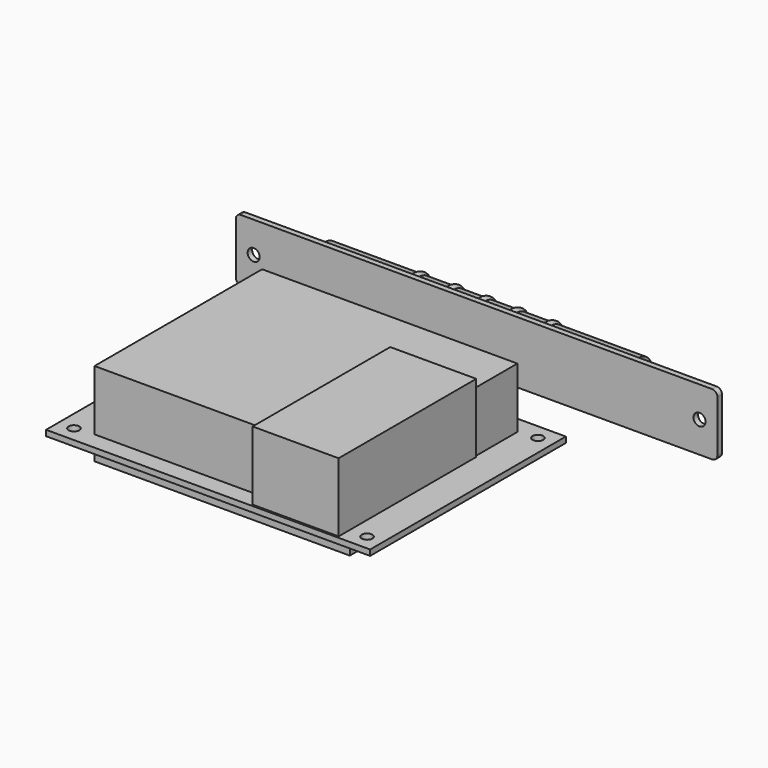
from build123d import *

# Parameters (mm, degrees)
SKETCH008_W          = 140
SKETCH008_H          = 18
SKETCH008_R          = 1.75
PAD006_DEPTH         = 1.65
FILLET_R             = 1.5
FUSION003_ROLL_ANGLE = -90
SKETCH006_W          = 74.2
SKETCH006_H          = 60.9
PAD005_DEPTH         = 6.9
SKETCH005_W          = 25
SKETCH005_H          = 50
PAD004_DEPTH         = 20
SKETCH004_W          = 74.2
SKETCH004_H          = 60.9
PAD003_DEPTH         = 17.5
SKETCH003_W          = 94.2
SKETCH003_H          = 71.1
SKETCH003_R          = 1.55
PAD002_DEPTH         = 1.65


with BuildPart() as fillet_body:
    # Sketch008 → Pad006 (new body)
    with BuildSketch(Plane.XY):
        Rectangle(SKETCH008_W, SKETCH008_H)
        with Locations((-64.8, 0)):
            Circle(SKETCH008_R, mode=Mode.SUBTRACT)
        with Locations((64.8, 0)):
            Circle(SKETCH008_R, mode=Mode.SUBTRACT)
    extrude(amount=PAD006_DEPTH)

    # Fillet
    fillet_edges = [fillet_body.edges().sort_by_distance(p)[0] for p in [
        (-70, -9, 0.825),
        (-70, 9, 0.825),
        (70, 9, 0.825),
        (70, -9, 0.825),
    ]]
    fillet(fillet_edges, radius=FILLET_R)


with BuildPart() as tubeassembly:
    # Sketch007 → Revolution (revolve)
    with BuildSketch(Plane(origin=(-4.7, 0, 7.8), x_dir=(1, 0, 0), z_dir=(0, 0, 1))):
        with BuildLine():
            Line((45.6, 4.85), (45.6, 3.25))
            Line((45.6, 3.25), (53.6, 3.25))
            Line((53.6, 3.25), (53.6, 0))
            Line((53.6, 0), (-53.6, 0))
            Line((-53.6, 3.25), (-53.6, 0))
            Line((-45.6, 3.25), (-53.6, 3.25))
            Line((-45.6, 4.85), (-45.6, 3.25))
            Line((-45.6, 4.85), (-20.2, 4.85))
            ThreePointArc((-18.240408, 4.85), (-19.220204, 5.45), (-20.2, 4.85))
            Line((-10.1, 4.85), (-18.240408, 4.85))
            ThreePointArc((-8.140408, 4.85), (-9.120204, 5.45), (-10.1, 4.85))
            Line((-0.979796, 4.85), (-8.140408, 4.85))
            ThreePointArc((0.979796, 4.85), (0, 5.45), (-0.979796, 4.85))
            Line((0.979796, 4.85), (8.140408, 4.85))
            ThreePointArc((10.1, 4.85), (9.120204, 5.45), (8.140408, 4.85))
            Line((10.1, 4.85), (18.240408, 4.85))
            ThreePointArc((20.2, 4.85), (19.220204, 5.45), (18.240408, 4.85))
            Line((45.6, 4.85), (20.2, 4.85))
        make_face()
    revolve(axis=Axis((-4.7, 0, 7.8), (1, 0, 0)))

    # Fusion003: union Fillet body
    add(fillet_body.part)


with BuildPart() as tubeassembly_1:
    # Fusion003 roll: moved
    add(tubeassembly.part.rotate(Axis((0, 0, 0), (1, 0, 0)), FUSION003_ROLL_ANGLE))


with BuildPart() as tubeassembly_2:
    # Fusion003 placement: moved
    add(tubeassembly_1.part.moved(Location((-6, 30, 33))))


with BuildPart() as pad005:
    # Sketch006 → Pad005 (new body)
    with BuildSketch(Plane.XY.offset(-5.25)):
        Rectangle(SKETCH006_W, SKETCH006_H)
    extrude(amount=PAD005_DEPTH)


with BuildPart() as pad004:
    # Sketch005 → Pad004 (new body)
    with BuildSketch(Plane(origin=(25, -10, 1.65), x_dir=(1, 0, 0), z_dir=(0, 0, 1))):
        Rectangle(SKETCH005_W, SKETCH005_H)
    extrude(amount=PAD004_DEPTH)


with BuildPart() as pad003:
    # Sketch004 → Pad003 (new body)
    with BuildSketch(Plane.XY.offset(1.65)):
        Rectangle(SKETCH004_W, SKETCH004_H)
    extrude(amount=PAD003_DEPTH)


with BuildPart() as fusion004:
    # Sketch003 → Pad002 (new body)
    with BuildSketch(Plane.XY):
        Rectangle(SKETCH003_W, SKETCH003_H)
        with Locations((-42.6, 31.05)):
            Circle(SKETCH003_R, mode=Mode.SUBTRACT)
        with Locations((42.6, 31.05)):
            Circle(SKETCH003_R, mode=Mode.SUBTRACT)
        with Locations((42.6, -31.05)):
            Circle(SKETCH003_R, mode=Mode.SUBTRACT)
        with Locations((-42.6, -31.05)):
            Circle(SKETCH003_R, mode=Mode.SUBTRACT)
    extrude(amount=PAD002_DEPTH)

    # Fusion: union Pad003
    add(pad003.part)

    # Fusion001: union Pad004
    add(pad004.part)

    # Fusion002: union Pad005
    add(pad005.part)


with BuildPart() as fusion004_1:
    # Fusion002 placement: moved
    add(fusion004.part.moved(Location((-30, -2, 12))))

    # Fusion004: union TubeAssembly
    add(tubeassembly_2.part)


solid = fusion004_1.part
